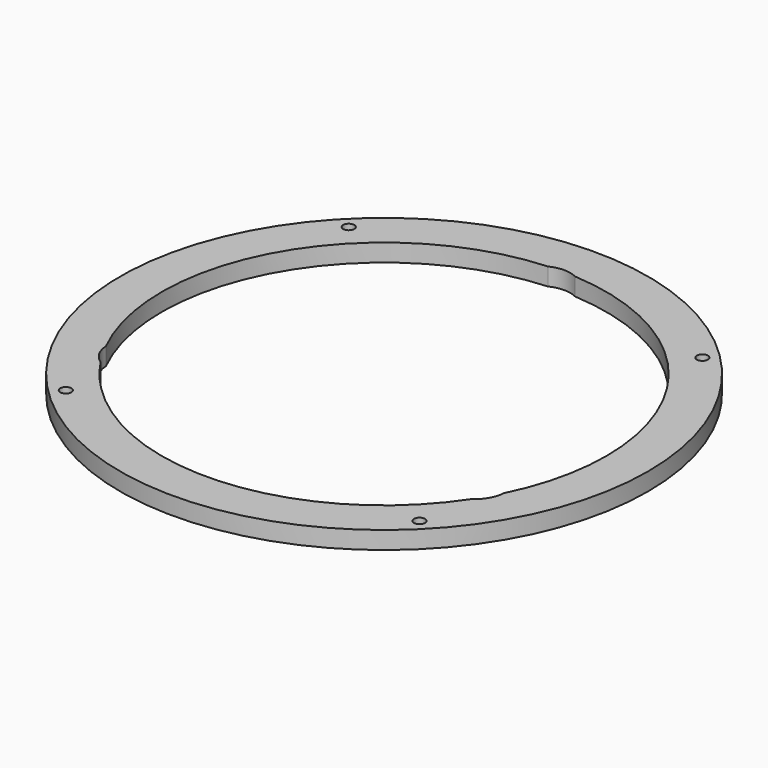
from build123d import *

# Parameters (mm, degrees)
F0_R     = 47.5
F0_R_2   = 1
F1_DEPTH = 3.175


with BuildPart() as f1:
    # F0 (on Top) → F1 (new body)
    with BuildSketch(Plane.XY):
        Circle(F0_R)
        with BuildLine():
            ThreePointArc((-30.8198051534, -31.8198051534), (-32.7436846859, -32.2024885858), (-31.1126983722, -31.1126983722))
            ThreePointArc((-31.1126983722, -31.1126983722), (-30.8959256209, -31.437121721), (-30.8198051534, -31.8198051534))
        make_face(mode=Mode.SUBTRACT)
        with Locations((31.8198051534, -31.8198051534)):
            Circle(F0_R_2, mode=Mode.SUBTRACT)
        with Locations((-31.8198051534, 31.8198051534)):
            Circle(F0_R_2, mode=Mode.SUBTRACT)
        with BuildLine():
            ThreePointArc((33.3518936085, -22.0828257415), (4.0043327396, -39.7990617893), (-28.2842712475, -28.2842712475))
            ThreePointArc((-28.2842712475, -28.2842712475), (-30.9736773104, -25.3106956418), (-33.3518936085, -22.0828257415))
            ThreePointArc((-33.3518936085, -22.0828257415), (-35.0740288533, -20.25), (-35.8002348837, -17.8421742585))
            ThreePointArc((-35.8002348837, -17.8421742585), (-34.6410161514, 20), (-2.4483412752, 39.925))
            ThreePointArc((-2.4483412752, 39.925), (0, 40.5), (2.4483412752, 39.925))
            ThreePointArc((2.4483412752, 39.925), (29.1370352902, 27.4049844827), (40, 0))
            ThreePointArc((40, 0), (38.9359049936, -9.1648951072), (35.8002348837, -17.8421742585))
            ThreePointArc((35.8002348837, -17.8421742585), (35.0740288533, -20.25), (33.3518936085, -22.0828257415))
        make_face(mode=Mode.SUBTRACT)
        with Locations((31.8198051534, 31.8198051534)):
            Circle(F0_R_2, mode=Mode.SUBTRACT)
    extrude(amount=F1_DEPTH)


solid = f1.part
